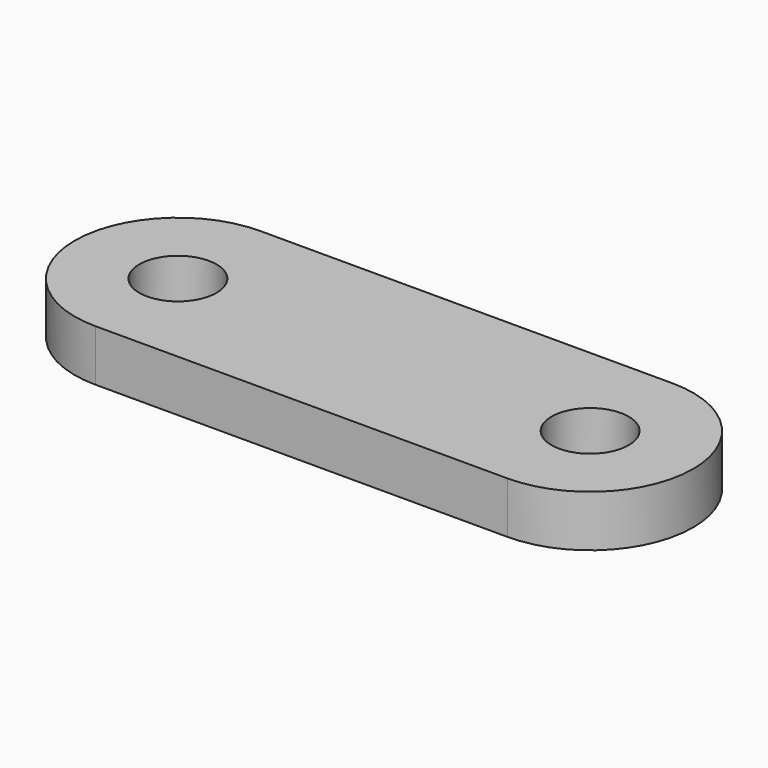
from build123d import *

# Parameters (mm, degrees)
SKETCH_R  = 7.5
PAD_DEPTH = 10


with BuildPart() as part:
    # Sketch → Pad (new body)
    with BuildSketch(Plane.XY):
        with BuildLine():
            Line((-40, 20), (40, 20))
            ThreePointArc((40, -20), (60, 0), (40, 20))
            Line((40, -20), (-40, -20))
            ThreePointArc((-40, 20), (-60, 0), (-40, -20))
        make_face()
        with Locations((-40, 0)):
            Circle(SKETCH_R, mode=Mode.SUBTRACT)
        with Locations((40, 0)):
            Circle(SKETCH_R, mode=Mode.SUBTRACT)
    extrude(amount=PAD_DEPTH)


solid = part.part
